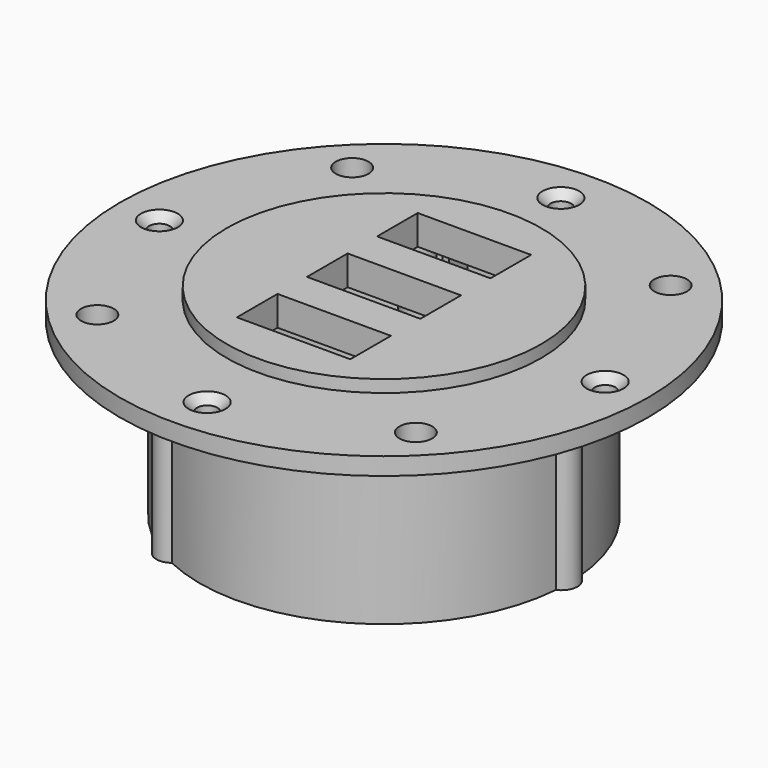
from build123d import *

# Parameters (mm, degrees)
SKETCH_R          = 32.25
PAD_DEPTH         = 2.13
SKETCH004_R       = 1.25
SKETCH004_R_2     = 2
POCKET001_DEPTH   = 5
CHAMFER_SIZE      = 1
SKETCH001_R       = 19.2
PAD001_DEPTH      = 1.5
SKETCH003_W       = 13.85
SKETCH003_H       = 6.2
POCKET_DEPTH      = 2.131
POCKET_DEPTH_BACK = 1.501
SKETCH009_R       = 18
POCKET002_DEPTH   = 2
PAD002_DEPTH      = 21


with BuildPart() as part:
    # Sketch → Pad (new body)
    with BuildSketch(Plane.XY):
        Circle(SKETCH_R)
    extrude(amount=PAD_DEPTH)

    # Sketch004 → Pocket001 (cut)
    with BuildSketch(Plane.XY.offset(2.13)):
        with Locations((0, 27)):
            Circle(SKETCH004_R)
        with Locations((19.445436, 19.445436)):
            Circle(SKETCH004_R_2)
        with Locations((27, 0)):
            Circle(SKETCH004_R)
        with Locations((0, -27)):
            Circle(SKETCH004_R)
        with Locations((-19.445436, -19.445436)):
            Circle(SKETCH004_R_2)
        with Locations((-19.445436, 19.445436)):
            Circle(SKETCH004_R_2)
        with Locations((19.445436, -19.445436)):
            Circle(SKETCH004_R_2)
        with Locations((-26.994671, -0.536434)):
            Circle(SKETCH004_R)
    extrude(amount=-POCKET001_DEPTH, mode=Mode.SUBTRACT)

    # Chamfer
    chamfer_edges = [part.edges().sort_by_distance(p)[0] for p in [
        (25.75, 0, 2.13),
        (-1.25, 27, 2.13),
        (-28.244671, -0.536434, 2.13),
        (-1.25, -27, 2.13),
    ]]
    chamfer(chamfer_edges, length=CHAMFER_SIZE)

    # Sketch001 → Pad001 (join)
    with BuildSketch(Plane.XY.offset(2.13)):
        Circle(SKETCH001_R)
    extrude(amount=PAD001_DEPTH)

    # Sketch003 → Pocket (cut, two sides)
    with BuildSketch(Plane.XY.offset(2.13)) as pocket_sk:
        Rectangle(SKETCH003_W, SKETCH003_H)
        with Locations((0, -10.7)):
            Rectangle(SKETCH003_W, SKETCH003_H)
        with Locations((0, 10.7)):
            Rectangle(SKETCH003_W, SKETCH003_H)
    extrude(amount=-POCKET_DEPTH, mode=Mode.SUBTRACT)
    extrude(pocket_sk.sketch, amount=POCKET_DEPTH_BACK, mode=Mode.SUBTRACT)

    # Sketch009 → Pocket002 (cut)
    with BuildSketch(Plane.XY):
        Circle(SKETCH009_R)
    extrude(amount=-POCKET002_DEPTH, mode=Mode.SUBTRACT)

    # Sketch006 → Pad002 (join)
    with BuildSketch(Plane(origin=(0, 0, 0), x_dir=(0.866025, 0.5, 0), z_dir=(0, 0, 1))):
        with BuildLine():
            ThreePointArc((-1.804633, 22.427512), (-19.485572, 11.25), (-20.325112, -9.650898))
            ThreePointArc((-20.325112, -9.650898), (-20.45119, -11.8075), (-18.520479, -12.776614))
            ThreePointArc((-18.520479, -12.776614), (0, -22.5), (18.520479, -12.776614))
            ThreePointArc((18.520479, -12.776614), (20.45119, -11.8075), (20.325112, -9.650898))
            ThreePointArc((20.325112, -9.650898), (19.485572, 11.25), (1.804633, 22.427512))
            ThreePointArc((1.804633, 22.427512), (0, 23.615), (-1.804633, 22.427512))
        make_face()
        with BuildLine():
            ThreePointArc((-1.860528, 21.017812), (-18.273136, 10.55), (-19.132223, -8.897642))
            ThreePointArc((-17.271696, -12.120171), (-17.04771, -9.8425), (-19.132223, -8.897642))
            ThreePointArc((-17.271696, -12.120171), (-16.59064, -13.036896), (-15.860983, -13.915431))
            Line((-14.58548, -11.706194), (-15.860983, -13.915431))
            Line((-13.892659, -12.106194), (-14.58548, -11.706194))
            Line((-15.29504, -14.53519), (-13.892659, -12.106194))
            ThreePointArc((-15.29504, -14.53519), (1.560407, -21.042223), (17.271696, -12.120171))
            ThreePointArc((19.132223, -8.897642), (17.04771, -9.8425), (17.271696, -12.120171))
            ThreePointArc((19.132223, -8.897642), (19.003303, 9.169759), (4.940323, 20.513488))
            Line((4.940323, 20.513488), (3.537942, 18.084493))
            Line((3.537942, 18.084493), (2.845122, 18.484493))
            Line((2.845122, 18.484493), (4.120625, 20.69373))
            ThreePointArc((4.120625, 20.69373), (2.994963, 20.886364), (1.860528, 21.017812))
            ThreePointArc((-1.860528, 21.017812), (0, 19.685), (1.860528, 21.017812))
        make_face(mode=Mode.SUBTRACT)
    extrude(amount=-PAD002_DEPTH)


solid = part.part
